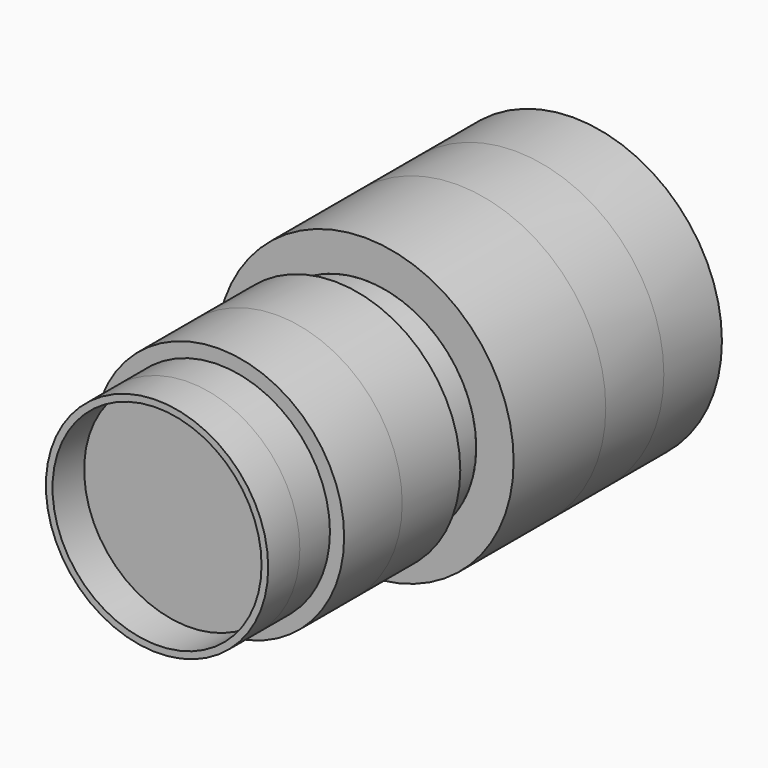
from build123d import *

# Parameters (mm, degrees)
F0_R        = 18.852906591
F0_R_2      = 17.7254963778
F1_DEPTH    = 18.69227
F1_FACE_R   = 18.852906591
F2_DEPTH    = 25.4
F3_R        = 25.202906591
F3_R_2      = 18.852906591
F4_DEPTH    = 31.84098
F5_R        = 21.2592466673
F4_FACE_R   = 25.202906591
F4_FACE_R_2 = 18.852906591
F6_DEPTH    = 12.31011


with BuildPart() as f1:
    # F0 (on Front) → F1 (new body, symmetric)
    with BuildSketch(Plane.XZ):
        Circle(F0_R)
        Circle(F0_R_2, mode=Mode.SUBTRACT)
        Circle(F0_R_2)
    extrude(amount=F1_DEPTH, both=True)

    # F0 (on Front) + F1_face (on face) → F2 (join)
    with BuildSketch(Plane.XZ):
        Circle(F0_R)
        Circle(F0_R_2, mode=Mode.SUBTRACT)
    with BuildSketch(Plane(origin=(0, 18.69227, 0), x_dir=(1, 0, 0), z_dir=(0, 1, 0))):
        Circle(F1_FACE_R)
    extrude(amount=F2_DEPTH, dir=(0, -1, 0))


with BuildPart() as f4:
    # F3 (on face) → F4 (new body)
    with BuildSketch(Plane(origin=(0, 18.69227, 0), x_dir=(-1, 0, 0), z_dir=(0, 1, 0))):
        Circle(F3_R)
        Circle(F3_R_2, mode=Mode.SUBTRACT)
    extrude(amount=F4_DEPTH)


with BuildPart() as f6:
    # F5 (on Front) + F4_face (on face) → F6 (new body, symmetric)
    with BuildSketch(Plane.XZ):
        Circle(F5_R)
    with BuildSketch(Plane(origin=(0, 50.53325, 0), x_dir=(-1, 0, 0), z_dir=(0, 1, 0))):
        Circle(F4_FACE_R)
        Circle(F4_FACE_R_2, mode=Mode.SUBTRACT)
    extrude(amount=F6_DEPTH, both=True, dir=(0, -1, 0))


solid = Compound([f1.part, f4.part, f6.part])
